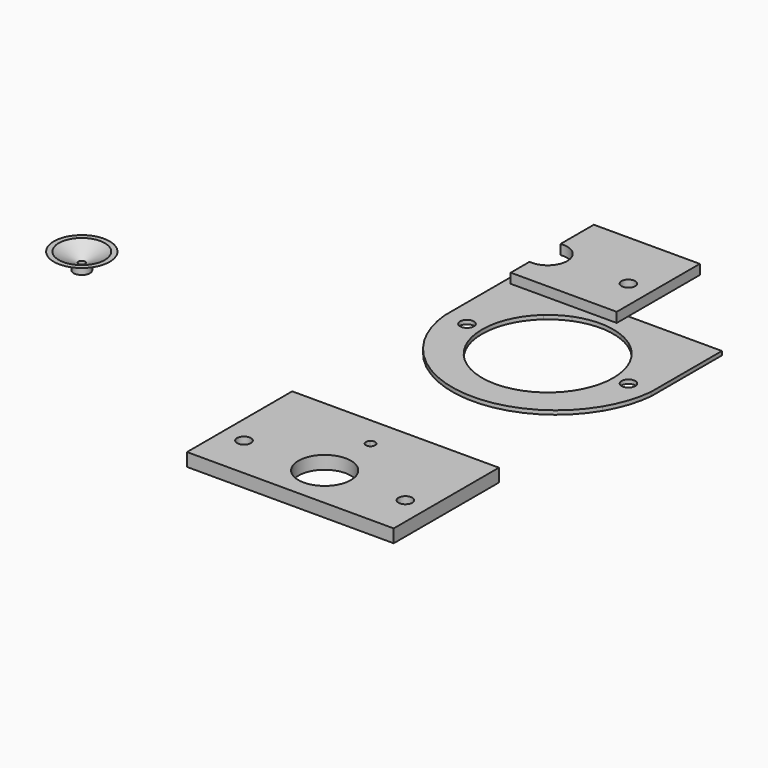
from build123d import *

# Parameters (mm, degrees)
F0_R     = 2.1
F0_W     = 19.8008343896
F0_H     = 8.4309437345
F0_R_2   = 8
F0_W_2   = 18.1991656104
F1_DEPTH = 4
F3_DEPTH = 1.2
F5_R     = 2.1
F6_DEPTH = 3


with BuildPart() as f1:
    # F0 (on Top) → F1 (new body)
    with BuildSketch(Plane.XY):
        with BuildLine():
            Line((90.6251924178, 65.0015100837), (70.8243580282, 65.0015100837))
            Line((70.8243580282, 65.0015100837), (70.8243580282, 62.6537214635))
            ThreePointArc((70.8243580282, 62.6537214635), (76.9294519111, 55.5433453166), (79.1251924178, 46.4324538182))
            ThreePointArc((79.1251924178, 46.4324538182), (77.8684445216, 39.4545959397), (74.2561423606, 33.3536788821))
            Line((74.2561423606, 33.3536788821), (86.3022573274, 33.3536788821))
            ThreePointArc((86.3022573274, 33.3536788821), (89.1836866425, 39.6550969674), (90.6251924178, 46.4324538182))
            Line((90.6251924178, 46.4324538182), (90.6251924178, 65.0015100837))
        make_face()
        with Locations((83.7251924178, 46.4324538182)):
            Circle(F0_R, mode=Mode.SUBTRACT)
        with BuildLine():
            Line((90.6251924178, 33.3536788821), (90.6251924178, 46.4324538182))
            ThreePointArc((90.6251924178, 46.4324538182), (89.1836866425, 39.6550969674), (86.3022573274, 33.3536788821))
            Line((86.3022573274, 33.3536788821), (90.6251924178, 33.3536788821))
        make_face()
        with Locations((80.724775223, 69.2169819509)):
            Rectangle(F0_W, F0_H)
        with BuildLine():
            ThreePointArc((51.6961851214, 65.0015100837), (48.602306263, 63.440359832), (45.8243580282, 61.3685779654))
            Line((45.8243580282, 61.3685779654), (45.8243580282, 33.3536788821))
            Line((45.8243580282, 33.3536788821), (70.8243580282, 33.3536788821))
            Line((70.8243580282, 33.3536788821), (70.8243580282, 62.6537214635))
            ThreePointArc((70.8243580282, 62.6537214635), (68.7610513592, 63.9581555862), (66.5541997142, 65.0015100837))
            Line((66.5541997142, 65.0015100837), (60.0347688131, 65.0015100837))
            ThreePointArc((60.0347688131, 65.0015100837), (60.323314359, 64.5546725947), (60.4243580282, 64.0324538182))
            ThreePointArc((60.4243580282, 64.0324538182), (58.5021392517, 62.7334974874), (58.0139472432, 65.0015100837))
            Line((58.0139472432, 65.0015100837), (51.6961851214, 65.0015100837))
        make_face()
        with Locations((59.1251924178, 46.4324538182)):
            Circle(F0_R_2, mode=Mode.SUBTRACT)
        with BuildLine():
            Line((45.8243580282, 61.3685779654), (45.8243580282, 65.0015100837))
            Line((45.8243580282, 65.0015100837), (27.6251924178, 65.0015100837))
            Line((27.6251924178, 65.0015100837), (27.6251924178, 46.4324538182))
            ThreePointArc((27.6251924178, 46.4324538182), (29.066698193, 39.6550969674), (31.9481275082, 33.3536788821))
            Line((31.9481275082, 33.3536788821), (43.994242475, 33.3536788821))
            ThreePointArc((43.994242475, 33.3536788821), (39.1677318393, 47.7362050435), (45.8243580282, 61.3685779654))
        make_face()
        with Locations((34.5251924178, 46.4324538182)):
            Circle(F0_R, mode=Mode.SUBTRACT)
        with Locations((36.724775223, 69.2169819509)):
            Rectangle(F0_W_2, F0_H)
        with BuildLine():
            ThreePointArc((31.9481275082, 33.3536788821), (29.066698193, 39.6550969674), (27.6251924178, 46.4324538182))
            Line((27.6251924178, 46.4324538182), (27.6251924178, 33.3536788821))
            Line((27.6251924178, 33.3536788821), (31.9481275082, 33.3536788821))
        make_face()
        with BuildLine():
            ThreePointArc((79.1251924178, 46.4324538182), (76.9294519111, 55.5433453166), (70.8243580282, 62.6537214635))
            Line((70.8243580282, 62.6537214635), (70.8243580282, 33.3536788821))
            Line((70.8243580282, 33.3536788821), (74.2561423606, 33.3536788821))
            ThreePointArc((74.2561423606, 33.3536788821), (77.8684445216, 39.4545959397), (79.1251924178, 46.4324538182))
        make_face()
        with BuildLine():
            Line((45.8243580282, 33.3536788821), (45.8243580282, 61.3685779654))
            ThreePointArc((45.8243580282, 61.3685779654), (39.1677318393, 47.7362050435), (43.994242475, 33.3536788821))
            Line((43.994242475, 33.3536788821), (45.8243580282, 33.3536788821))
        make_face()
        with BuildLine():
            Line((70.8243580282, 62.6537214635), (70.8243580282, 65.0015100837))
            Line((70.8243580282, 65.0015100837), (66.5541997142, 65.0015100837))
            ThreePointArc((66.5541997142, 65.0015100837), (68.7610513592, 63.9581555862), (70.8243580282, 62.6537214635))
        make_face()
        with BuildLine():
            ThreePointArc((66.5541997142, 65.0015100837), (59.1251924178, 66.4324538182), (51.6961851214, 65.0015100837))
            Line((51.6961851214, 65.0015100837), (58.0139472432, 65.0015100837))
            ThreePointArc((58.0139472432, 65.0015100837), (59.0243580282, 65.4324538182), (60.0347688131, 65.0015100837))
            Line((60.0347688131, 65.0015100837), (66.5541997142, 65.0015100837))
        make_face()
        with BuildLine():
            Line((70.8243580282, 73.4324538182), (45.8243580282, 73.4324538182))
            Line((45.8243580282, 73.4324538182), (45.8243580282, 65.0015100837))
            Line((45.8243580282, 65.0015100837), (51.6961851214, 65.0015100837))
            ThreePointArc((51.6961851214, 65.0015100837), (59.1251924178, 66.4324538182), (66.5541997142, 65.0015100837))
            Line((66.5541997142, 65.0015100837), (70.8243580282, 65.0015100837))
            Line((70.8243580282, 65.0015100837), (70.8243580282, 73.4324538182))
        make_face()
        with BuildLine():
            Line((51.6961851214, 65.0015100837), (45.8243580282, 65.0015100837))
            Line((45.8243580282, 65.0015100837), (45.8243580282, 61.3685779654))
            ThreePointArc((45.8243580282, 61.3685779654), (48.602306263, 63.440359832), (51.6961851214, 65.0015100837))
        make_face()
    extrude(amount=F1_DEPTH)


with BuildPart() as f1_1:
    # F2: moved
    add(f1.part.moved(Location((-0.50606, -84.33221, 0))))


with BuildPart() as f3:
    # F0 (on Top) → F3 (new body)
    with BuildSketch(Plane.XY):
        with BuildLine():
            Line((45.8243580282, 61.3685779654), (45.8243580282, 65.0015100837))
            Line((45.8243580282, 65.0015100837), (27.6251924178, 65.0015100837))
            Line((27.6251924178, 65.0015100837), (27.6251924178, 46.4324538182))
            ThreePointArc((27.6251924178, 46.4324538182), (29.066698193, 39.6550969674), (31.9481275082, 33.3536788821))
            Line((31.9481275082, 33.3536788821), (43.994242475, 33.3536788821))
            ThreePointArc((43.994242475, 33.3536788821), (39.1677318393, 47.7362050435), (45.8243580282, 61.3685779654))
        make_face()
        with Locations((34.5251924178, 46.4324538182)):
            Circle(F0_R, mode=Mode.SUBTRACT)
        with BuildLine():
            Line((90.6251924178, 65.0015100837), (70.8243580282, 65.0015100837))
            Line((70.8243580282, 65.0015100837), (70.8243580282, 62.6537214635))
            ThreePointArc((70.8243580282, 62.6537214635), (76.9294519111, 55.5433453166), (79.1251924178, 46.4324538182))
            ThreePointArc((79.1251924178, 46.4324538182), (77.8684445216, 39.4545959397), (74.2561423606, 33.3536788821))
            Line((74.2561423606, 33.3536788821), (86.3022573274, 33.3536788821))
            ThreePointArc((86.3022573274, 33.3536788821), (89.1836866425, 39.6550969674), (90.6251924178, 46.4324538182))
            Line((90.6251924178, 46.4324538182), (90.6251924178, 65.0015100837))
        make_face()
        with Locations((83.7251924178, 46.4324538182)):
            Circle(F0_R, mode=Mode.SUBTRACT)
        with Locations((80.724775223, 69.2169819509)):
            Rectangle(F0_W, F0_H)
        with BuildLine():
            Line((70.8243580282, 73.4324538182), (45.8243580282, 73.4324538182))
            Line((45.8243580282, 73.4324538182), (45.8243580282, 65.0015100837))
            Line((45.8243580282, 65.0015100837), (51.6961851214, 65.0015100837))
            ThreePointArc((51.6961851214, 65.0015100837), (59.1251924178, 66.4324538182), (66.5541997142, 65.0015100837))
            Line((66.5541997142, 65.0015100837), (70.8243580282, 65.0015100837))
            Line((70.8243580282, 65.0015100837), (70.8243580282, 73.4324538182))
        make_face()
        with Locations((36.724775223, 69.2169819509)):
            Rectangle(F0_W_2, F0_H)
        with BuildLine():
            ThreePointArc((45.8243580282, 31.496329671), (44.8789990103, 32.3951473317), (43.994242475, 33.3536788821))
            Line((43.994242475, 33.3536788821), (31.9481275082, 33.3536788821))
            ThreePointArc((31.9481275082, 33.3536788821), (59.1251924178, 17.9324538182), (86.3022573274, 33.3536788821))
            Line((86.3022573274, 33.3536788821), (74.2561423606, 33.3536788821))
            ThreePointArc((74.2561423606, 33.3536788821), (60.4769917214, 26.4781901474), (45.8964358625, 31.4324538182))
            Line((45.8964358625, 31.4324538182), (45.8243580282, 31.4324538182))
            Line((45.8243580282, 31.4324538182), (45.8243580282, 31.496329671))
        make_face()
        with BuildLine():
            Line((70.8243580282, 62.6537214635), (70.8243580282, 65.0015100837))
            Line((70.8243580282, 65.0015100837), (66.5541997142, 65.0015100837))
            ThreePointArc((66.5541997142, 65.0015100837), (68.7610513592, 63.9581555862), (70.8243580282, 62.6537214635))
        make_face()
        with BuildLine():
            Line((51.6961851214, 65.0015100837), (45.8243580282, 65.0015100837))
            Line((45.8243580282, 65.0015100837), (45.8243580282, 61.3685779654))
            ThreePointArc((45.8243580282, 61.3685779654), (48.602306263, 63.440359832), (51.6961851214, 65.0015100837))
        make_face()
    extrude(amount=F3_DEPTH)


with BuildPart() as f6:
    # F5 (on offset) → F6 (new body)
    with BuildSketch(Plane.XY.offset(25)):
        with BuildLine():
            Line((90.6251924178, 65.0015100837), (58.3243580282, 65.0015100837))
            Line((58.3243580282, 65.0015100837), (58.3243580282, 52.3283137454))
            ThreePointArc((58.3243580282, 52.3283137454), (63.0391121526, 50.9139415521), (65.0751924178, 46.4324538182))
            ThreePointArc((65.0751924178, 46.4324538182), (63.0391121526, 41.9509660843), (58.3243580282, 40.5365938911))
            Line((58.3243580282, 40.5365938911), (58.3243580282, 33.3536788821))
            Line((58.3243580282, 33.3536788821), (90.6251924178, 33.3536788821))
            Line((90.6251924178, 33.3536788821), (90.6251924178, 46.4324538182))
            Line((90.6251924178, 46.4324538182), (90.6251924178, 65.0015100837))
        make_face()
        with Locations((83.7251924178, 46.4324538182)):
            Circle(F5_R, mode=Mode.SUBTRACT)
    extrude(amount=F6_DEPTH)


with BuildPart() as f8:
    # F7 (on Front) → F8 (revolve)
    with BuildSketch(Plane.XZ):
        Polygon((-44.7277545333, 10.3811436091), (-44.7277545333, 8.3811436091), (-43.2277545333, 8.3811436091), (-43.2277545333, 10.3811436091), (-37.2277545333, 13.3811436091), (-38.7277545333, 13.3811436091), align=None)
    revolve(axis=Axis((-45.7277545333, 0, 10.9527949244), (0, 0, 1)))


solid = Compound([f1_1.part, f3.part, f6.part, f8.part])
